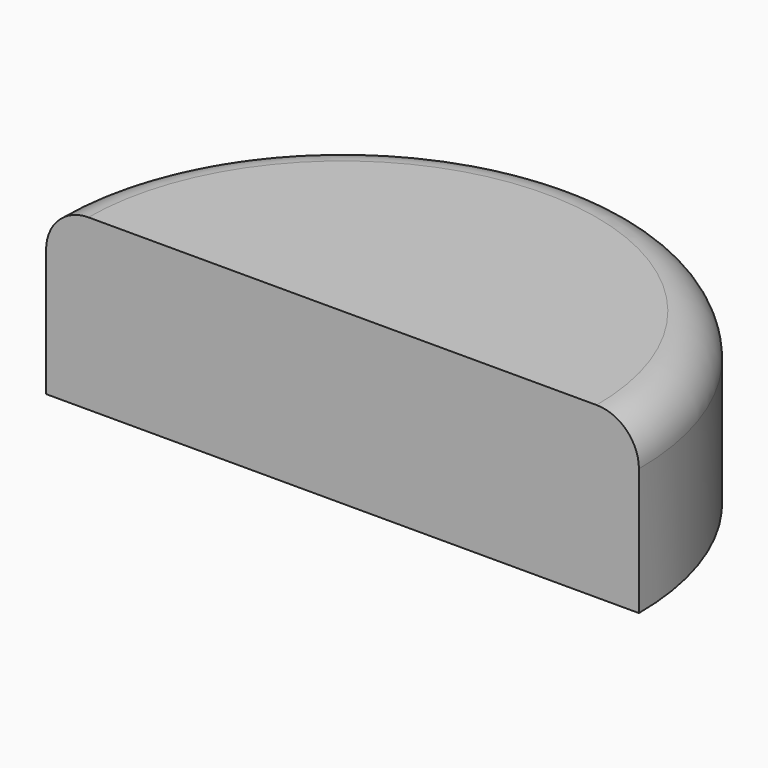
from build123d import *

# Parameters (mm, degrees)
F1_DEPTH = 25.4
F2_R     = 6.35


with BuildPart() as f1:
    # F0 (on Top) → F1 (new body)
    with BuildSketch(Plane.XY):
        with BuildLine():
            ThreePointArc((44.45, 0), (0, 44.45), (-44.45, 0))
            Line((-44.45, 0), (44.45, 0))
        make_face()
    extrude(amount=F1_DEPTH)

    # F2
    f2_edges = [f1.edges().sort_by_distance(p)[0] for p in [
        (0, 44.45, 25.4),
    ]]
    fillet(f2_edges, radius=F2_R)


solid = f1.part
